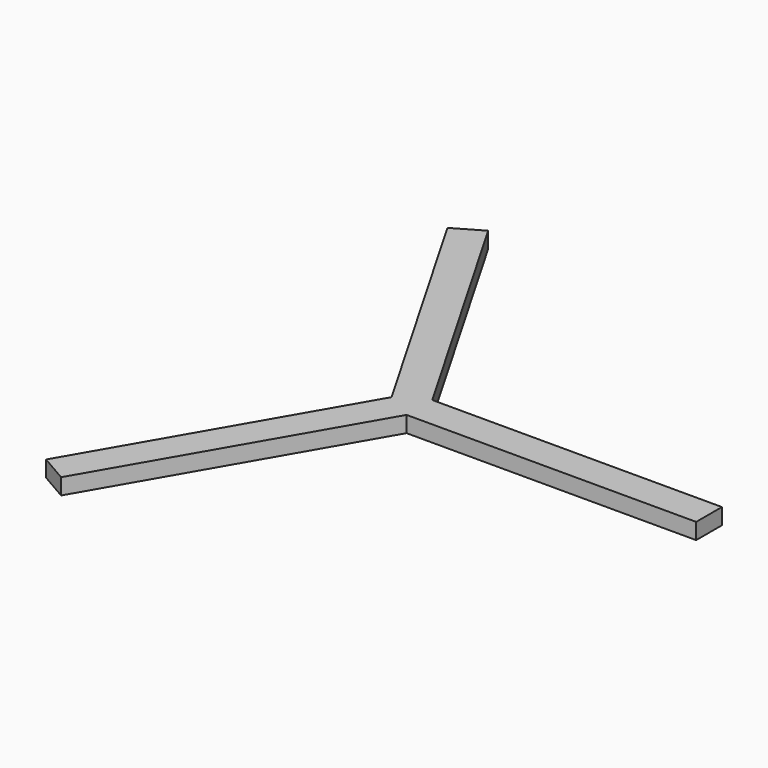
from build123d import *

# Parameters (mm, degrees)
F2_DEPTH = 25
F3_COUNT = 3


with BuildPart() as f2:
    # F0 (on Top) → F2 (new body)
    with BuildSketch(Plane.XY):
        Polygon((14.4337567297, 25), (0, 0), (14.4337567297, -25), (464.4337567297, -25), (464.4337567297, 25), align=None)
    extrude(amount=F2_DEPTH)

    # F3: F2 ×3 about axis
    f3_axis = Axis((0, 0, 69.7502270341), (0, 0, 1))


with BuildPart() as f2_1:
    add(f2.part)
    for i in range(1, F3_COUNT):
        add(f2.part.rotate(f3_axis, i * 360 / F3_COUNT))


solid = f2_1.part
